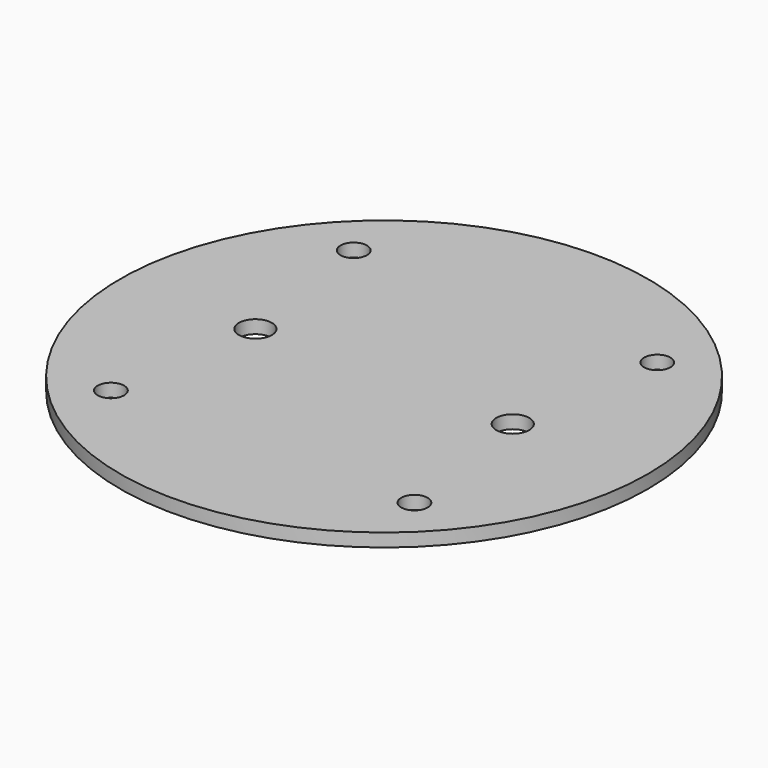
from build123d import *

# Parameters (mm, degrees)
F0_R     = 40
F0_R_2   = 2
F0_R_3   = 2.5
F1_DEPTH = 2


with BuildPart() as f1:
    # F0 (on Top) → F1 (new body)
    with BuildSketch(Plane.XY):
        Circle(F0_R)
        with Locations((-23, -23)):
            Circle(F0_R_2, mode=Mode.SUBTRACT)
        with Locations((23, -23)):
            Circle(F0_R_2, mode=Mode.SUBTRACT)
        with Locations((-19.5, 0)):
            Circle(F0_R_3, mode=Mode.SUBTRACT)
        with Locations((-23, 23)):
            Circle(F0_R_2, mode=Mode.SUBTRACT)
        with BuildLine():
            ThreePointArc((22, 0), (19.5, -2.5), (17, 0))
            ThreePointArc((17, 0), (19.5, 2.5), (22, 0))
        make_face(mode=Mode.SUBTRACT)
        with Locations((23, 23)):
            Circle(F0_R_2, mode=Mode.SUBTRACT)
    extrude(amount=F1_DEPTH)


solid = f1.part
